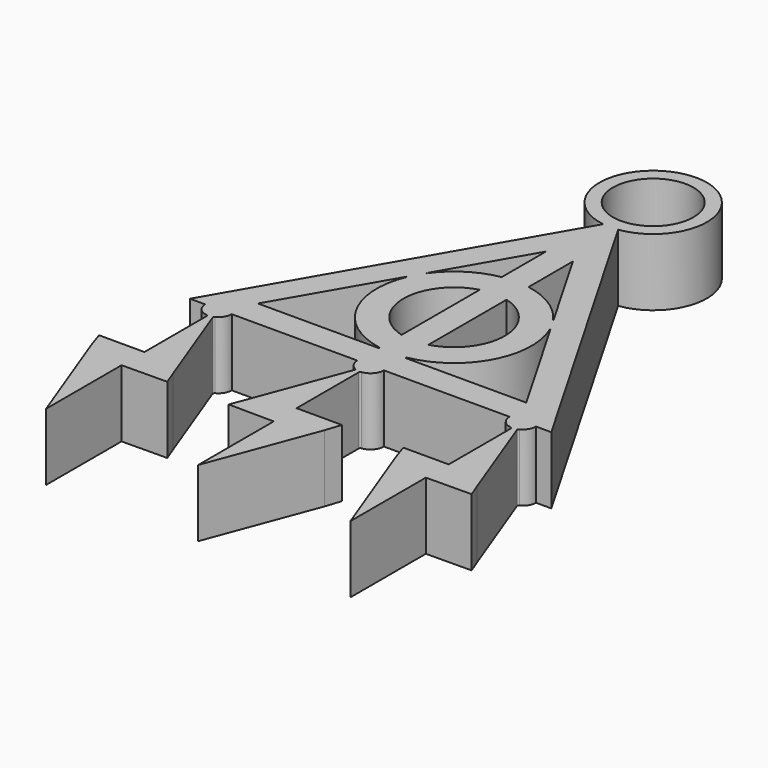
from build123d import *

# Parameters (mm, degrees)
F0_R     = 3.81
F1_DEPTH = 6.35


with BuildPart() as f1:
    # F0 (on Top) → F1 (new body)
    with BuildSketch(Plane.XY):
        with BuildLine():
            ThreePointArc((-41.25781, 52.265789), (-41.962675, 62.37665), (-42.66754, 52.265789))
            Line((-42.66754, 52.265789), (-59.062084, 23.869605))
            Line((-59.062084, 23.869605), (-57.619567, 23.869605))
            ThreePointArc((-57.619567, 23.869605), (-57.289697, 23.02009), (-56.472972, 22.615802))
            ThreePointArc((-56.472972, 22.615802), (-56.394343, 22.572172), (-56.360751, 22.48876))
            Line((-56.360751, 22.48876), (-56.360751, 15.109252))
            Line((-56.360751, 15.109252), (-60.653351, 15.109252))
            Line((-60.653351, 15.109252), (-60.17075, 13.635652))
            Line((-60.17075, 13.635652), (-56.360751, 3.475656))
            Line((-56.360751, 3.475656), (-56.360751, 12.402629))
            Line((-56.360751, 12.402629), (-52.063409, 12.444335))
            Line((-52.063409, 12.444335), (-52.550751, 13.709605))
            Line((-52.550751, 13.709605), (-55.859824, 22.5338))
            ThreePointArc((-55.859824, 22.5338), (-55.864827, 22.653299), (-55.790776, 22.747221))
            ThreePointArc((-55.790776, 22.747221), (-55.287879, 23.211151), (-55.101936, 23.869605))
            Line((-55.101936, 23.869605), (-51.141787, 23.869605))
            Line((-51.141787, 23.869605), (-47.181639, 23.869605))
            Line((-47.181639, 23.869605), (-43.221491, 23.869605))
            ThreePointArc((-43.221491, 23.869605), (-43.023639, 23.19213), (-42.492277, 22.727616))
            ThreePointArc((-42.492277, 22.727616), (-42.441688, 22.675932), (-42.437375, 22.603739))
            Line((-42.437375, 22.603739), (-45.772675, 13.709605))
            Line((-45.772675, 13.709605), (-46.260017, 12.444335))
            Line((-46.260017, 12.444335), (-41.962675, 12.402629))
            Line((-41.962675, 12.402629), (-41.962675, 3.475656))
            Line((-41.962675, 3.475656), (-38.152676, 13.635652))
            Line((-38.152676, 13.635652), (-37.670075, 15.109252))
            Line((-37.670075, 15.109252), (-41.962675, 15.109252))
            Line((-41.962675, 15.109252), (-41.962675, 22.463657))
            ThreePointArc((-41.962675, 22.463657), (-41.930399, 22.562862), (-41.841028, 22.616681))
            ThreePointArc((-41.841028, 22.616681), (-41.030541, 23.023589), (-40.703859, 23.869605))
            Line((-40.703859, 23.869605), (-36.743711, 23.869605))
            Line((-36.743711, 23.869605), (-32.783563, 23.869605))
            Line((-32.783563, 23.869605), (-28.823414, 23.869605))
            ThreePointArc((-28.823414, 23.869605), (-28.509839, 23.038259), (-27.725339, 22.621094))
            ThreePointArc((-27.725339, 22.621094), (-27.608791, 22.553648), (-27.564598, 22.426451))
            Line((-27.564598, 22.426451), (-27.564598, 15.109252))
            Line((-27.564598, 15.109252), (-31.857198, 15.109252))
            Line((-31.857198, 15.109252), (-31.374597, 13.635652))
            Line((-31.374597, 13.635652), (-27.564598, 3.475656))
            Line((-27.564598, 3.475656), (-27.564598, 12.402629))
            Line((-27.564598, 12.402629), (-23.267257, 12.444335))
            Line((-23.267257, 12.444335), (-23.754598, 13.709605))
            Line((-23.754598, 13.709605), (-27.063154, 22.53242))
            ThreePointArc((-27.063154, 22.53242), (-27.07158, 22.653013), (-26.995363, 22.746846))
            ThreePointArc((-26.995363, 22.746846), (-26.491943, 23.210798), (-26.305783, 23.869605))
            Line((-26.305783, 23.869605), (-24.863266, 23.869605))
            Line((-24.863266, 23.869605), (-41.25781, 52.265789))
        make_face()
        with BuildLine():
            Line((-43.232675, 26.409605), (-54.662675, 26.409605))
            Line((-54.662675, 26.409605), (-48.778328, 36.601592))
            Line((-48.778328, 36.601592), (-48.714401, 36.601592))
            ThreePointArc((-48.714401, 36.601592), (-48.404297, 30.239263), (-43.232675, 26.520428))
            Line((-43.232675, 26.520428), (-43.232675, 26.409605))
        make_face(mode=Mode.SUBTRACT)
        with BuildLine():
            Line((-40.692675, 26.409605), (-40.692675, 26.520428))
            ThreePointArc((-40.692675, 26.520428), (-35.521053, 30.239263), (-35.210949, 36.601592))
            Line((-35.210949, 36.601592), (-35.163003, 36.629274))
            Line((-35.163003, 36.629274), (-29.262675, 26.409605))
            Line((-29.262675, 26.409605), (-40.692675, 26.409605))
        make_face(mode=Mode.SUBTRACT)
        with BuildLine():
            ThreePointArc((-43.232675, 29.120947), (-46.755023, 33.741954), (-43.232675, 38.36296))
            Line((-43.232675, 38.36296), (-43.232675, 29.120947))
        make_face(mode=Mode.SUBTRACT)
        with BuildLine():
            Line((-47.993081, 37.96168), (-43.232675, 46.206946))
            Line((-43.232675, 46.206946), (-43.232675, 40.963479))
            ThreePointArc((-43.232675, 40.963479), (-45.893702, 39.93149), (-47.959111, 37.96168))
            Line((-47.959111, 37.96168), (-47.993081, 37.96168))
        make_face(mode=Mode.SUBTRACT)
        with Locations((-41.962675, 57.29665)):
            Circle(F0_R, mode=Mode.SUBTRACT)
        with BuildLine():
            ThreePointArc((-40.692675, 38.36296), (-37.170326, 33.741954), (-40.692675, 29.120947))
            Line((-40.692675, 29.120947), (-40.692675, 38.36296))
        make_face(mode=Mode.SUBTRACT)
        with BuildLine():
            Line((-40.692675, 40.963479), (-40.692675, 46.206946))
            Line((-40.692675, 46.206946), (-35.932269, 37.96168))
            Line((-35.932269, 37.96168), (-35.956442, 37.947724))
            ThreePointArc((-35.956442, 37.947724), (-38.024454, 39.926915), (-40.692675, 40.963479))
        make_face(mode=Mode.SUBTRACT)
    extrude(amount=F1_DEPTH)


solid = f1.part
